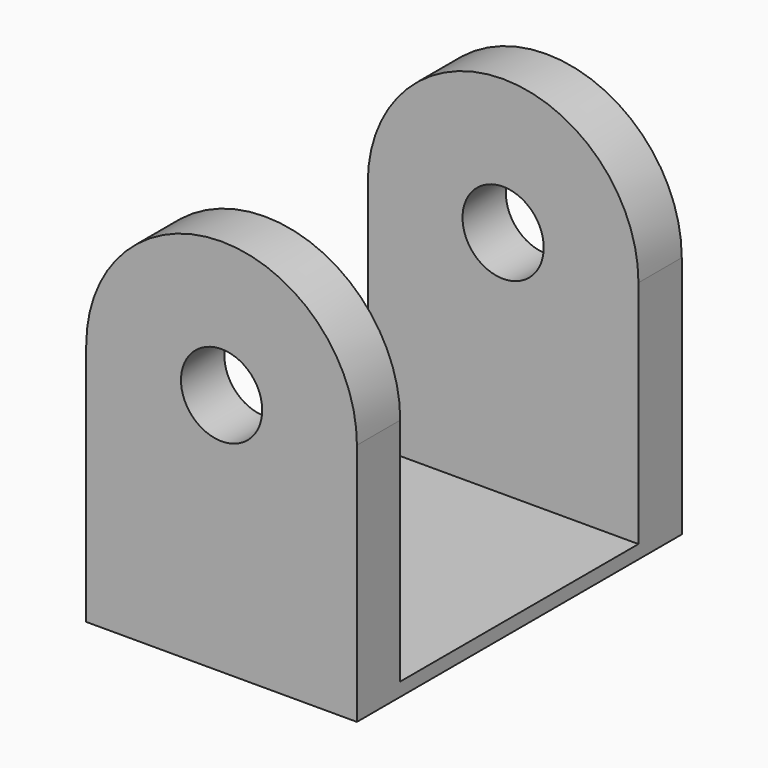
from build123d import *

# Parameters (mm, degrees)
F0_R     = 15
F0_W     = 100
F0_H     = 5
F2_DEPTH = 150
F1_W     = 20
F1_H     = 200
F3_DEPTH = 116.7


with BuildPart() as f2:
    # F0 (on Front) → F2 (new body)
    with BuildSketch(Plane.XZ):
        with BuildLine():
            Line((0, 90), (0, 5))
            Line((0, 5), (100, 5))
            Line((100, 5), (100, 90))
            ThreePointArc((100, 90), (50, 140), (0, 90))
        make_face()
        with Locations((50, 90)):
            Circle(F0_R, mode=Mode.SUBTRACT)
        with Locations((50, 2.5)):
            Rectangle(F0_W, F0_H)
    extrude(amount=-F2_DEPTH)

    # F1 (on Right) → F3 (intersect)
    with BuildSketch(Plane.YZ):
        Polygon((0, 5), (0, 0), (150, 0), (150, 5), (130, 5), (20, 5), align=None)
        with Locations((10, 105)):
            Rectangle(F1_W, F1_H)
        with Locations((140, 105)):
            Rectangle(F1_W, F1_H)
    extrude(amount=F3_DEPTH, mode=Mode.INTERSECT)


solid = f2.part
